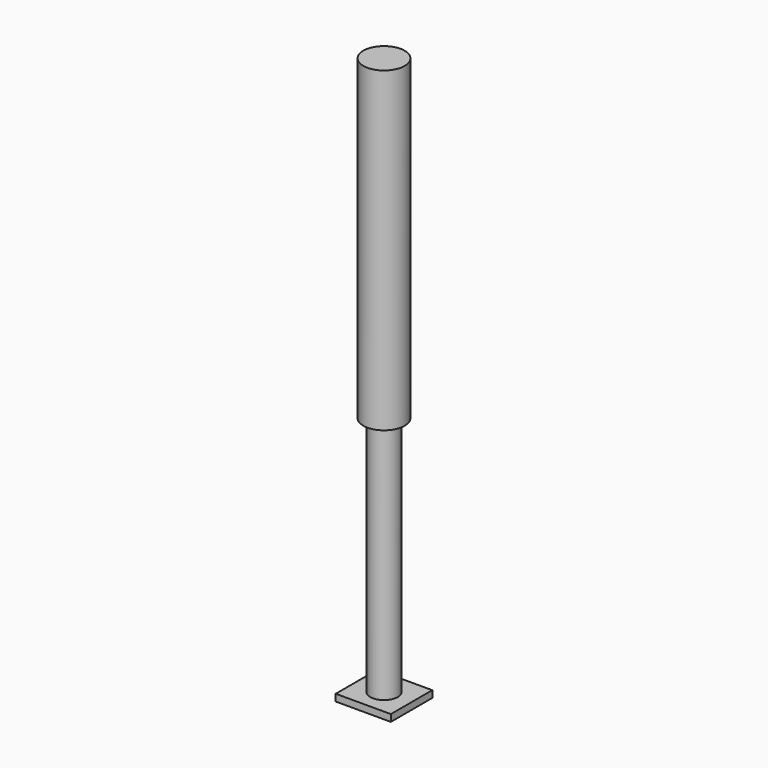
from build123d import *

# Parameters (mm, degrees)
F2_W     = 203.2
F2_H     = 191.048058
F3_DEPTH = 25.4


with BuildPart() as f1:
    # F0 (on Right) → F1 (revolve)
    with BuildSketch(Plane.YZ):
        Polygon((-50.8, 0), (0, 0), (0, 2082.8), (-76.2, 2082.8), (-76.2, 914.4), (-50.8, 914.4), align=None)
    revolve(axis=Axis((0, 0, 1041.4), (0, 0, -1)))

    # F2 (on Top) → F3 (join)
    with BuildSketch(Plane.XY):
        Rectangle(F2_W, F2_H)
    extrude(amount=F3_DEPTH)


solid = f1.part
